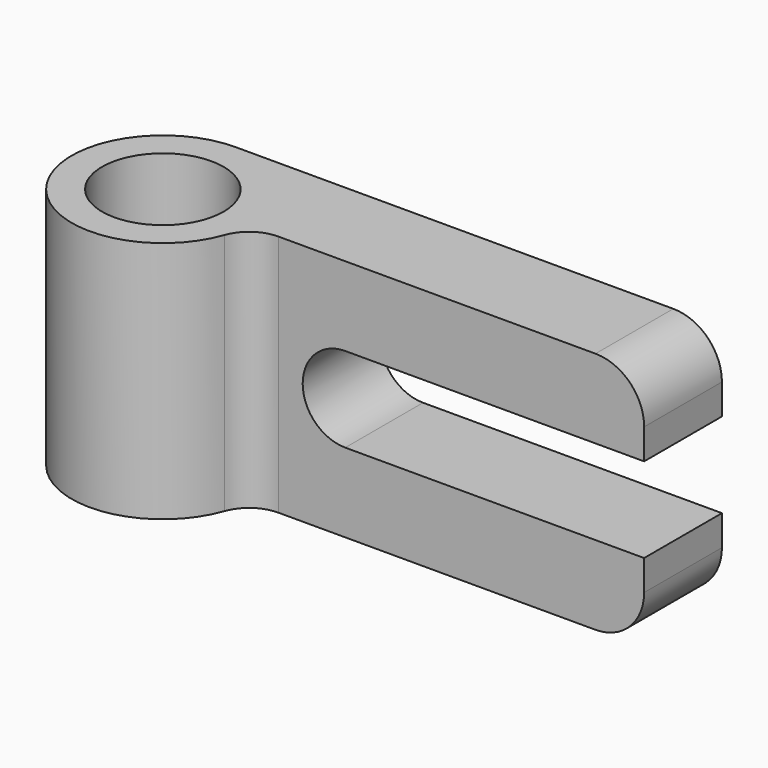
from build123d import *

# Parameters (mm, degrees)
F0_R     = 25
F1_DEPTH = 100
F3_DEPTH = 50
F4_R     = 20


with BuildPart() as f1:
    # F0 (on Top) → F1 (new body)
    with BuildSketch(Plane.XY):
        with BuildLine():
            Line((200, 37.5), (0, 37.5))
            ThreePointArc((0, 37.5), (-30.618622, -21.650635), (35.355339, -12.5))
            ThreePointArc((35.355339, -12.5), (40.837221, -5.252551), (49.497475, -2.5))
            Line((49.497475, -2.5), (200, -2.5))
            Line((200, -2.5), (200, 37.5))
        make_face()
        Circle(F0_R, mode=Mode.SUBTRACT)
    extrude(amount=F1_DEPTH)

    # F2 (on face) → F3 (cut)
    with BuildSketch(Plane.XZ.offset(2.5)):
        with BuildLine():
            Line((200, 67.5), (77.039003, 67.5))
            ThreePointArc((77.039003, 67.5), (59.539003, 50), (77.039003, 32.5))
            Line((77.039003, 32.5), (200, 32.5))
            Line((200, 32.5), (200, 67.5))
        make_face()
    extrude(amount=-F3_DEPTH, mode=Mode.SUBTRACT)

    # F4
    f4_edges = [f1.edges().sort_by_distance(p)[0] for p in [
        (200, 17.5, 100),
        (200, 17.5, 0),
    ]]
    fillet(f4_edges, radius=F4_R)


solid = f1.part
